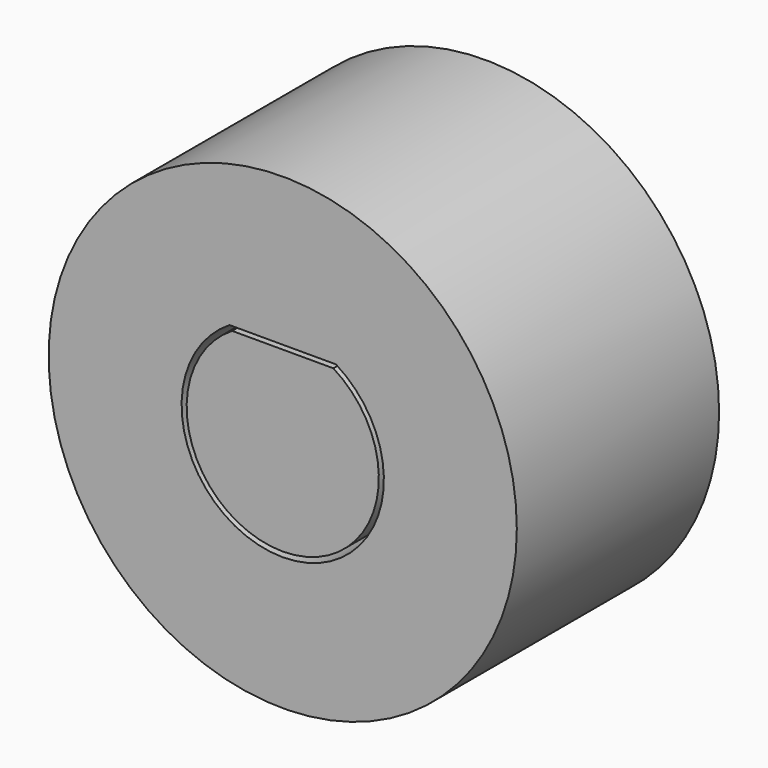
from build123d import *

# Parameters (mm, degrees)
F0_R     = 23.143758
F1_DEPTH = 25
F3_DEPTH = 25


with BuildPart() as f1:
    # F0 (on Front) → F1 (new body)
    with BuildSketch(Plane.XZ):
        Circle(F0_R)
        with BuildLine():
            ThreePointArc((5.267827, 8.5), (0, -10), (-5.267827, 8.5))
            Line((-5.267827, 8.5), (5.267827, 8.5))
        make_face(mode=Mode.SUBTRACT)
    extrude(amount=F1_DEPTH)


with BuildPart() as f3:
    # F2 (on Front) → F3 (new body)
    with BuildSketch(Plane.XZ):
        with BuildLine():
            Line((5.004436, 8.075), (-5.004436, 8.075))
            ThreePointArc((-5.004436, 8.075), (0, -9.5), (5.004436, 8.075))
        make_face()
    extrude(amount=F3_DEPTH)


solid = Compound([f1.part, f3.part])
